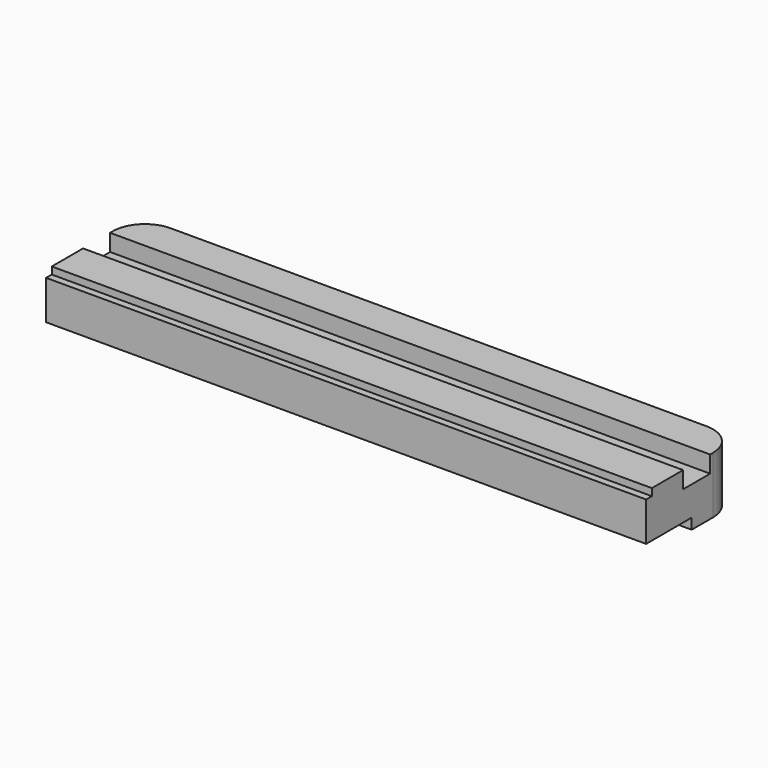
from build123d import *

# Parameters (mm, degrees)
PAD005_DEPTH    = 32
SKETCH013_W     = 337.5
SKETCH013_H     = 19
POCKET007_DEPTH = 9.5
SKETCH014_W     = 337.5
SKETCH014_H     = 4
POCKET008_DEPTH = 4
SKETCH015_W     = 337.5
SKETCH015_H     = 32
POCKET009_DEPTH = 6


with BuildPart() as part:
    # Sketch012 → Pad005 (new body)
    with BuildSketch(Plane.XY):
        with BuildLine():
            Line((18, 65), (319.5, 65))
            ThreePointArc((337.5, 47), (332.227922, 59.727922), (319.5, 65))
            Line((337.5, 47), (337.5, 0))
            Line((337.5, 0), (0, 0))
            Line((0, 0), (0, 47))
            ThreePointArc((18, 65), (5.272078, 59.727922), (0, 47))
        make_face()
    extrude(amount=PAD005_DEPTH)

    # Sketch013 (on Face8 of Pad005) → Pocket007 (cut)
    with BuildSketch(Plane.XY.offset(32)):
        with Locations((168.75, 35.5)):
            Rectangle(SKETCH013_W, SKETCH013_H)
    extrude(amount=-POCKET007_DEPTH, mode=Mode.SUBTRACT)

    # Sketch014 (on Face4 of Pocket007) → Pocket008 (cut)
    with BuildSketch(Plane.XY.offset(32)):
        with Locations((168.75, 2)):
            Rectangle(SKETCH014_W, SKETCH014_H)
    extrude(amount=-POCKET008_DEPTH, mode=Mode.SUBTRACT)

    # Sketch015 (on Face2 of Pocket008) → Pocket009 (cut)
    with BuildSketch(Plane(origin=(0, 0, 0), x_dir=(1, 0, 0), z_dir=(0, 0, -1))):
        with Locations((168.75, -16)):
            Rectangle(SKETCH015_W, SKETCH015_H)
    extrude(amount=-POCKET009_DEPTH, mode=Mode.SUBTRACT)


with BuildPart() as part_1:
    # Clone placement: moved
    add(part.part.moved(Location((10, 10, -32))))


solid = part_1.part
